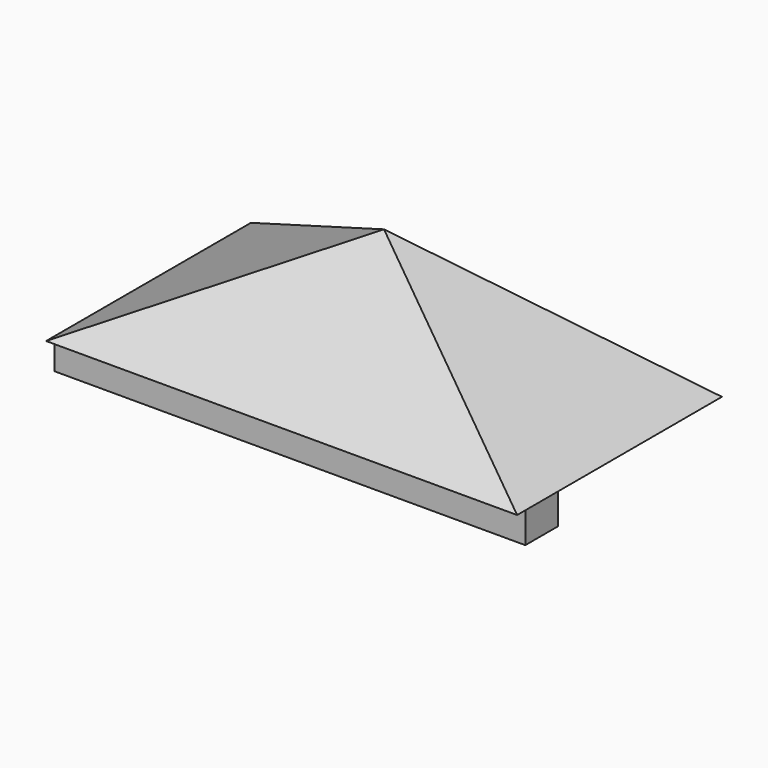
from build123d import *

# Parameters (mm, degrees)
F0_W     = 146.05
F0_H     = 79.375
F5_W     = 146.05
F5_H     = 12.7
F6_DEPTH = 9.525


with BuildPart() as f3:
    # F0 (on Top) → F3 section 0
    with BuildSketch(Plane.XY, mode=Mode.PRIVATE) as f3_s0:
        Rectangle(F0_W, F0_H)
    loft([f3_s0.sketch, Vertex(0, 0, 38.1)])

    # F5 (on offset) → F6 (join)
    with BuildSketch(Plane.XY):
        with Locations((0, -30.1625)):
            Rectangle(F5_W, F5_H)
    extrude(amount=-F6_DEPTH)


solid = f3.part
